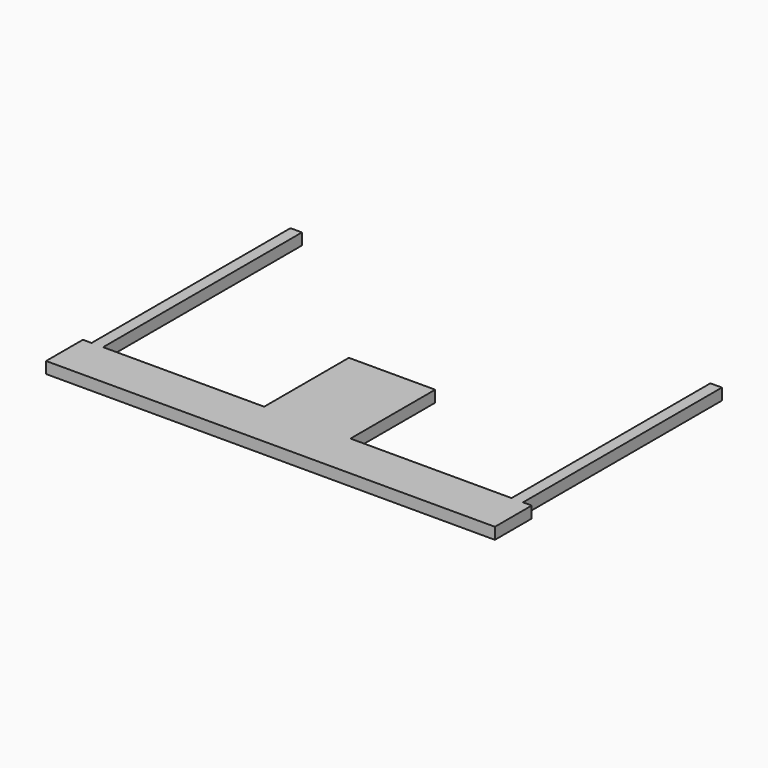
from build123d import *

# Parameters (mm, degrees)
F1_DEPTH = 6.35


with BuildPart() as f1:
    # F0 (on Top) → F1 (new body)
    with BuildSketch(Plane.XY):
        Polygon((23.8125, 41.91), (-23.8125, 41.91), (-23.8125, -16.51), (-23.8125, -41.91), (23.8125, -41.91), (23.8125, -16.51), align=None)
        Polygon((-23.8125, -41.91), (-23.8125, -16.51), (-112.6871, -16.51), (-112.6871, 120.65), (-119.0371, 120.65), (-119.0371, -16.51), (-123.825, -16.51), (-123.825, -41.91), align=None)
        Polygon((112.6871, -16.51), (23.8125, -16.51), (23.8125, -41.91), (123.825, -41.91), (123.825, -16.51), (119.0371, -16.51), (119.0371, 120.65), (112.6871, 120.65), align=None)
    extrude(amount=F1_DEPTH)


solid = f1.part
